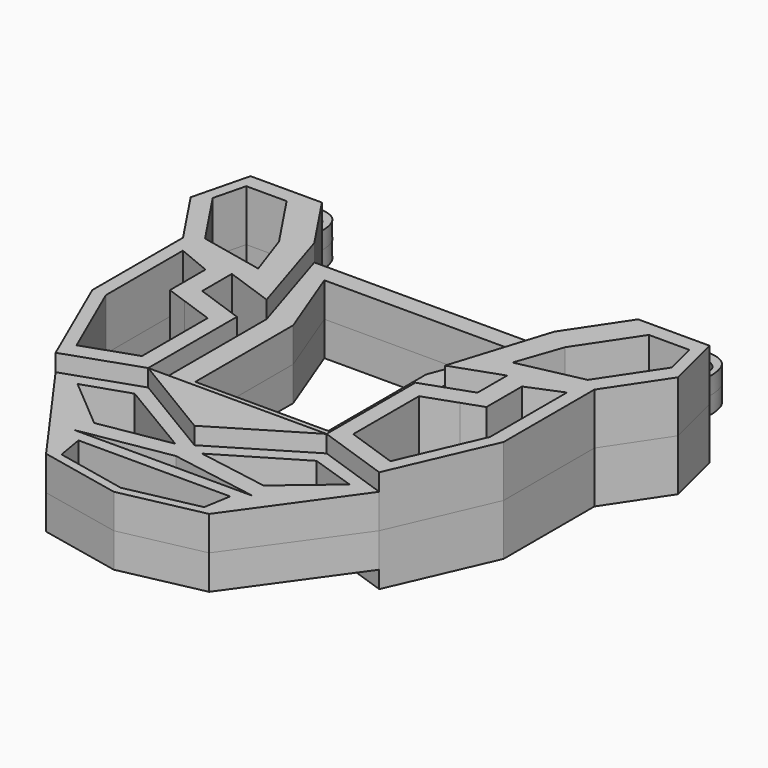
from build123d import *

# Parameters (mm, degrees)
F1_DEPTH = 1.5
F2_DEPTH = 1
F4_DEPTH = 0.5
F5_DEPTH = 1.501


with BuildPart() as f1:
    # F0 (on Top) → F1 (new body)
    with BuildSketch(Plane.XY):
        Polygon((4.1710517258, -0.4473678172), (3.5, 0), (2.6008490974, -2.8620844946), (4.0131007103, -2.3637916151), (5.996150883, -1.6641005887), (5.5775069337, -1.3850046224), (3.7075325381, -1.7852978781), align=None)
        Polygon((4.9326187, 1.6641005887), (4.6094003925, 1.6641005887), (5.2804521182, 1.2167327715), (6.4576182765, 1.2167327715), (6.6903111408, 0.2842016883), (6.6869073261, 0.2790959662), (7.1055512755, 0), (6.6903111408, 1.6641005887), (6.4464481547, 1.6641005887), align=None)
        Polygon((6.6869073261, 0.2790959662), (5.5775069337, -1.3850046224), (5.996150883, -1.6641005887), (7.1055512755, 0), align=None)
        Polygon((5.996150883, -1.6641005887), (4.0131007103, -2.3637916151), (4.0131007103, -3.4449881518), (2.6008490974, -3.9432810313), (2.6008490974, -7.1782567538), (4.7173781101, -7.907145983), (5.996150883, -4.972202728), align=None)
        Polygon((4.5752482362, -7.32140385), (3.0806677916, -6.8067009654), (3.0806677916, -4.4116140343), (4.0131007103, -4.0826183513), (4.6139373156, -3.8706217075), (4.6139373156, -2.5742764119), (5.5988095701, -2.1660383791), (5.5988095701, -4.972202728), align=None, mode=Mode.SUBTRACT)
        Polygon((4.6094003925, 1.6641005887), (3.5, 0), (4.1710517258, -0.4473678172), (5.2804521182, 1.2167327715), align=None)
    extrude(amount=F1_DEPTH)


with BuildPart() as f1b:
    # F0 (on Top) → F1, piece 2 (new body)
    with BuildSketch(Plane.XY):
        Polygon((-2.6008490974, -2.8620844946), (-3.5, 0), (-4.1710517258, -0.4473678172), (-3.7075325381, -1.7852978781), (-5.5775069337, -1.3850046224), (-5.996150883, -1.6641005887), (-4.0131007103, -2.3637916151), align=None)
        Polygon((-5.2804521182, 1.2167327715), (-4.6094003925, 1.6641005887), (-4.9326187, 1.6641005887), (-6.4464481547, 1.6641005887), (-6.6903111408, 1.6641005887), (-7.1055512755, 0), (-6.6869073261, 0.2790959662), (-6.6903111408, 0.2842016883), (-6.4576182765, 1.2167327715), align=None)
        Polygon((-4.0131007103, -3.4449881518), (-4.0131007103, -2.3637916151), (-5.996150883, -1.6641005887), (-5.996150883, -4.972202728), (-4.7173781101, -7.907145983), (-2.6008490974, -7.1782567538), (-2.6008490974, -3.9432810313), align=None)
        Polygon((-5.5988095701, -4.972202728), (-5.5988095701, -2.1660383791), (-4.6139373156, -2.5742764119), (-4.6139373156, -3.8706217075), (-4.0131007103, -4.0826183513), (-3.0806677916, -4.4116140343), (-3.0806677916, -6.8067009654), (-4.5752482362, -7.32140385), align=None, mode=Mode.SUBTRACT)
        Polygon((-5.996150883, -1.6641005887), (-5.5775069337, -1.3850046224), (-6.6869073261, 0.2790959662), (-7.1055512755, 0), align=None)
        Polygon((-4.1710517258, -0.4473678172), (-3.5, 0), (-4.6094003925, 1.6641005887), (-5.2804521182, 1.2167327715), align=None)
    extrude(amount=F1_DEPTH)


with BuildPart() as f1c:
    # F0 (on Top) → F1, piece 3 (new body)
    with BuildSketch(Plane.XY):
        Polygon((0, -8.7430039421), (2.6008490974, -7.1782567538), (0, -7.1782567538), (-2.6008490974, -7.1782567538), align=None)
    extrude(amount=F1_DEPTH)


with BuildPart() as f2:
    # F0 (on Top) → F2 (new body)
    with BuildSketch(Plane.XY):
        Polygon((3.5, 0), (0, 0), (-3.5, 0), (-2.6008490974, -2.8620844946), (-2.6008490974, -3.9432810313), (-2.6008490974, -7.1782567538), (0, -7.1782567538), (2.6008490974, -7.1782567538), (2.6008490974, -3.9432810313), (2.6008490974, -2.8620844946), align=None)
        Polygon((-1.938491012, -2.7220360935), (-2.7724877, -0.5443781847), (2.7724877, -0.5443781847), (1.938491012, -2.7220360935), (1.938491012, -6.2896884046), (0, -6.2896884046), (-1.938491012, -6.2896884046), align=None, mode=Mode.SUBTRACT)
    extrude(amount=F2_DEPTH)


with BuildPart() as f2b:
    # F0 (on Top) → F2, piece 2 (new body)
    with BuildSketch(Plane.XY):
        Polygon((0, -8.7430039421), (-2.6008490974, -7.1782567538), (-4.7173781101, -7.907145983), (-2.6008490974, -9.8647233099), (0, -9.4214621931), align=None)
        Polygon((-2.4681902363, -9.3119933286), (-3.9662960917, -8.0468608066), (-2.650485374, -7.6082572341), (-0.3899902222, -8.9578069746), align=None, mode=Mode.SUBTRACT)
        Polygon((-2.6008490974, -9.8647233099), (-4.7173781101, -7.907145983), (-2.3768299413, -11.1791630334), align=None)
        Polygon((0, -11.6820922121), (2.3768299413, -11.1791630334), (2.6008490974, -9.8647233099), (0, -9.8647233099), (-2.6008490974, -9.8647233099), (-2.3768299413, -11.1791630334), align=None)
        Polygon((-2.0784756319, -10.9889070062), (-2.2118820343, -10.2061405778), (0, -10.2061405778), (2.2118820343, -10.2061405778), (2.0784756319, -10.9889070062), (0, -11.4287054219), align=None, mode=Mode.SUBTRACT)
        Polygon((2.3768299413, -11.1791630334), (4.7173781101, -7.907145983), (2.6008490974, -9.8647233099), align=None)
        Polygon((4.7173781101, -7.907145983), (2.6008490974, -7.1782567538), (0, -8.7430039421), (0, -9.4214621931), (2.6008490974, -9.8647233099), align=None)
        Polygon((0.3899902222, -8.9578069746), (2.650485374, -7.6082572341), (3.9662960917, -8.0468608066), (2.4681902363, -9.3119933286), align=None, mode=Mode.SUBTRACT)
    extrude(amount=F2_DEPTH)


with BuildPart() as f4:
    # F0 (on Top) → F4 (new body)
    with BuildSketch(Plane.XY):
        with BuildLine():
            Line((-6.4464481547, 1.6641005887), (-4.9326187, 1.6641005887))
            add(Edge.make_bspline(
                [(-6.4464481547, 1.6641005887), (-6.4495755922, 2.0883790839), (-6.455710389, 2.9206458956), (-4.906769768, 2.9434340428), (-4.9238788734, 2.0966582085), (-4.9326187, 1.6641005887)],
                knots=[0, 0, 0, 0, 0.3371788825, 0.6614117771, 1, 1, 1, 1], degree=3))
        make_face()
    extrude(amount=F4_DEPTH)


with BuildPart() as f4b:
    # F0 (on Top) → F4, piece 2 (new body)
    with BuildSketch(Plane.XY):
        with BuildLine():
            add(Edge.make_bspline(
                [(6.4464481547, 1.6641005887), (6.4495755922, 2.0883790839), (6.455710389, 2.9206458956), (4.906769768, 2.9434340428), (4.9238788734, 2.0966582085), (4.9326187, 1.6641005887)],
                knots=[0, 0, 0, 0, 0.3371788825, 0.6614117771, 1, 1, 1, 1], degree=3))
            Line((4.9326187, 1.6641005887), (6.4464481547, 1.6641005887))
        make_face()
    extrude(amount=F4_DEPTH)


with BuildPart() as f5_tool:
    # F3 (on Top) → F5 (new body, through all)
    with BuildSketch(Plane.XY):
        with BuildLine():
            add(Edge.make_bspline(
                [(-6.2126046978, 1.6784189502), (-6.2742356596, 1.9763910242), (-6.402225652, 2.5951943394), (-5.0133832101, 2.6761523354), (-5.1331486142, 2.0285688468), (-5.1910774782, 1.7153416993)],
                knots=[0, 0, 0, 0, 0.3241081336, 0.673080483, 1, 1, 1, 1], degree=3))
            Line((-6.2126046978, 1.6784189502), (-5.1910774782, 1.6784189502))
            Line((-5.1910774782, 1.6784189502), (-5.1910774782, 1.7153416993))
        make_face()
        with BuildLine():
            Line((5.1910774782, 1.6784189502), (6.2126046978, 1.6784189502))
            add(Edge.make_bspline(
                [(6.2126046978, 1.6784189502), (6.2742356596, 1.9763910242), (6.402225652, 2.5951943394), (5.0133832101, 2.6761523354), (5.1331486142, 2.0285688468), (5.1910774782, 1.7153416993)],
                knots=[0, 0, 0, 0, 0.3241081336, 0.673080483, 1, 1, 1, 1], degree=3))
            Line((5.1910774782, 1.7153416993), (5.1910774782, 1.6784189502))
        make_face()
    extrude(amount=F5_DEPTH)


with BuildPart() as f4_1:
    add(f4.part)

    # F5: cut by f5_tool
    add(f5_tool.part, mode=Mode.SUBTRACT)


with BuildPart() as f4b_1:
    add(f4b.part)

    # F5: cut by f5_tool
    add(f5_tool.part, mode=Mode.SUBTRACT)


with BuildPart() as f6_1:
    # F6: instance of F1b
    add(f1b.part.mirror(Plane.XY))


with BuildPart() as f6_2:
    # F6: instance of F2
    add(f2.part.mirror(Plane.XY))


with BuildPart() as f6_3:
    # F6: instance of F2b
    add(f2b.part.mirror(Plane.XY))


with BuildPart() as f6_4:
    # F6: instance of F1
    add(f1.part.mirror(Plane.XY))


with BuildPart() as f6_5:
    # F6: instance of F1c
    add(f1c.part.mirror(Plane.XY))


with BuildPart() as f6_6:
    # F6: instance of F4
    add(f4_1.part.mirror(Plane.XY))


with BuildPart() as f6_7:
    # F6: instance of F4b
    add(f4b_1.part.mirror(Plane.XY))


solid = Compound([f1.part, f1b.part, f1c.part, f2.part, f2b.part, f4_1.part, f4b_1.part, f6_1.part, f6_2.part, f6_3.part, f6_4.part, f6_5.part, f6_6.part, f6_7.part])
